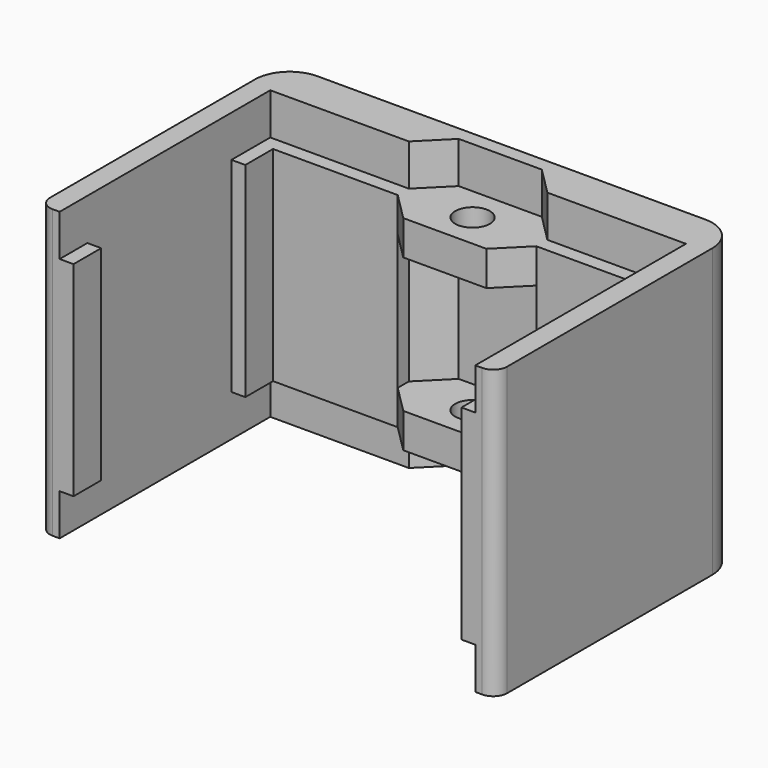
from build123d import *

# Parameters (mm, degrees)
F1_DEPTH  = 41.5
F2_DEPTH  = 35.5
F3_DEPTH  = 6
F5_DEPTH  = 50
F6_R      = 2.5
F7_DEPTH  = 5
F8_DEPTH  = 19.5
F9_DEPTH  = 5
F10_DEPTH = 50
F11_R     = 2


with BuildPart() as f1:
    # F0 (on Top) → F1 (new body)
    with BuildSketch(Plane.XY):
        with BuildLine():
            Line((30, 19), (30, -19))
            Line((30, -19), (33, -19))
            Line((33, -19), (33, 19))
            Line((33, 19), (33, 20))
            ThreePointArc((33, 20), (31.5355339059, 23.5355339059), (28, 25))
            Line((28, 25), (-28, 25))
            ThreePointArc((-28, 25), (-31.5355339059, 23.5355339059), (-33, 20))
            Line((-33, 20), (-33, 19))
            Line((-33, 19), (-33, -19))
            Line((-33, -19), (-30, -19))
            Line((-30, -19), (-30, 19))
            Line((-30, 19), (-10, 19))
            Line((-10, 19), (-6, 23))
            Line((-6, 23), (6, 23))
            Line((6, 23), (10, 19))
            Line((10, 19), (30, 19))
        make_face()
    extrude(amount=F1_DEPTH)

    # F0 (on Top) → F2 (join)
    with BuildSketch(Plane.XY):
        Polygon((-30, -19), (30, -19), (30, 19), (10, 19), (-10, 19), (-30, 19), align=None)
        Polygon((-10, 19), (10, 19), (6, 23), (-6, 23), align=None)
    extrude(amount=F2_DEPTH)

    # F0 (on Top) → F3 (cut)
    with BuildSketch(Plane.XY):
        Polygon((-30, -19), (30, -19), (30, 19), (10, 19), (-10, 19), (-30, 19), align=None)
        Polygon((-10, 19), (10, 19), (6, 23), (-6, 23), align=None)
    extrude(amount=F3_DEPTH, mode=Mode.SUBTRACT)

    # F4 (on face) → F5 (cut)
    with BuildSketch(Plane.XY.offset(35.5)):
        Polygon((6, 13), (-6, 13), (-10, 17), (-28, 17), (-28, 12), (-30, 12), (-30, -14), (-28, -14), (-28, -19), (28, -19), (28, -14), (30, -14), (30, 12), (28, 12), (28, 17), (10, 17), align=None)
    extrude(amount=-F5_DEPTH, mode=Mode.SUBTRACT)

    # F6 (on face) → F7 (cut)
    with BuildSketch(Plane.XY.offset(35.5)):
        Polygon((-6, 23), (-10, 19), (-10, 17), (-6, 13), (6, 13), (10, 17), (10, 19), (6, 23), align=None)
        with Locations((0, 18)):
            Circle(F6_R, mode=Mode.SUBTRACT)
    extrude(amount=-F7_DEPTH, mode=Mode.SUBTRACT)

    # F8 (cut): a face of the model
    f8_faces = [f1.faces().sort_by_distance(p)[0] for p in [
        (-7.841886117, 20.841886117, 30.5),
    ]]
    extrude(f8_faces, amount=-F8_DEPTH, mode=Mode.SUBTRACT)

    # F6 (on face) → F9 (join)
    with BuildSketch(Plane.XY.offset(35.5)):
        Polygon((-6, 23), (-10, 19), (-10, 17), (-6, 13), (6, 13), (10, 17), (10, 19), (6, 23), align=None)
        with Locations((0, 18)):
            Circle(F6_R, mode=Mode.SUBTRACT)
    extrude(amount=-F9_DEPTH)

    # F6 (on face) → F10 (cut)
    with BuildSketch(Plane.XY.offset(35.5)):
        with Locations((0, 18)):
            Circle(F6_R)
    extrude(amount=-F10_DEPTH, mode=Mode.SUBTRACT)

    # F11
    f11_edges = [f1.edges().sort_by_distance(p)[0] for p in [
        (-33, -19, 20.75),
        (33, -19, 20.75),
    ]]
    fillet(f11_edges, radius=F11_R)


solid = f1.part
